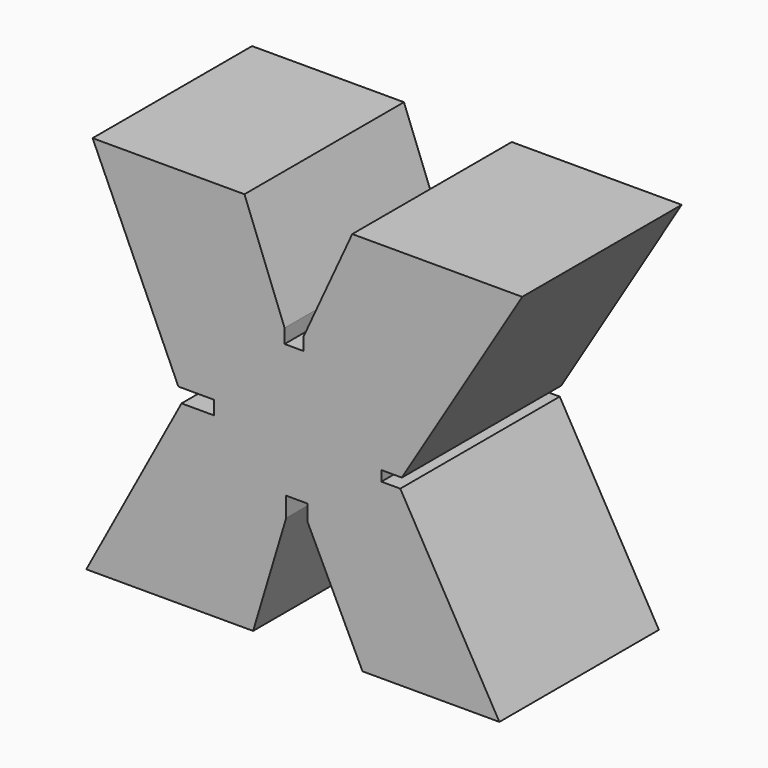
from build123d import *

# Parameters (mm, degrees)
F2_DEPTH = 76.2
F3_DEPTH = 25.4


with BuildPart() as f2:
    # F0 (on Front) → F2 (new body)
    with BuildSketch(Plane.XZ):
        Polygon((-18.799344, 72.941445), (-76.851711, 72.941445), (-44.065658, 0), (-30.53013, 0), (-30.53013, -5.263816), (-42.862501, -5.263816), (-79.258025, -72.941445), (-15.490658, -72.941445), (-2.857502, -30.83092), (-2.857502, -23.311185), (5.263818, -23.311185), (5.263818, -29.326973), (26.319075, -72.941445), (78.65645, -72.941445), (40.756974, -6.767763), (33.538029, -6.767763), (33.538029, -2.8575), (41.358553, -2.8575), (87.379344, 72.941445), (22.408813, 72.941445), (3.759871, 32.334868), (3.759871, 27.522238), (-3.459081, 27.522238), (-3.459081, 32.93645), align=None)
    extrude(amount=F2_DEPTH)

    # F1 (on Front) → F3 (cut)
    with BuildSketch(Plane.XZ):
        Polygon((-25.115922, 63.316189), (-59.105132, 63.316189), (-26.619868, 3.459079), (-26.619868, -8.271711), (-62.714607, -67.226447), (-20.30329, -67.226447), (-3.75987, -19.70171), (7.068554, -19.70171), (34.741186, -64.218551), (61.210655, -64.218551), (27.221451, -7.670132), (27.221451, 0), (64.519338, 60.909871), (32.635659, 60.909871), (6.466975, 16.393026), (-3.75987, 16.393026), align=None)
    extrude(amount=F3_DEPTH, mode=Mode.SUBTRACT)


solid = f2.part
